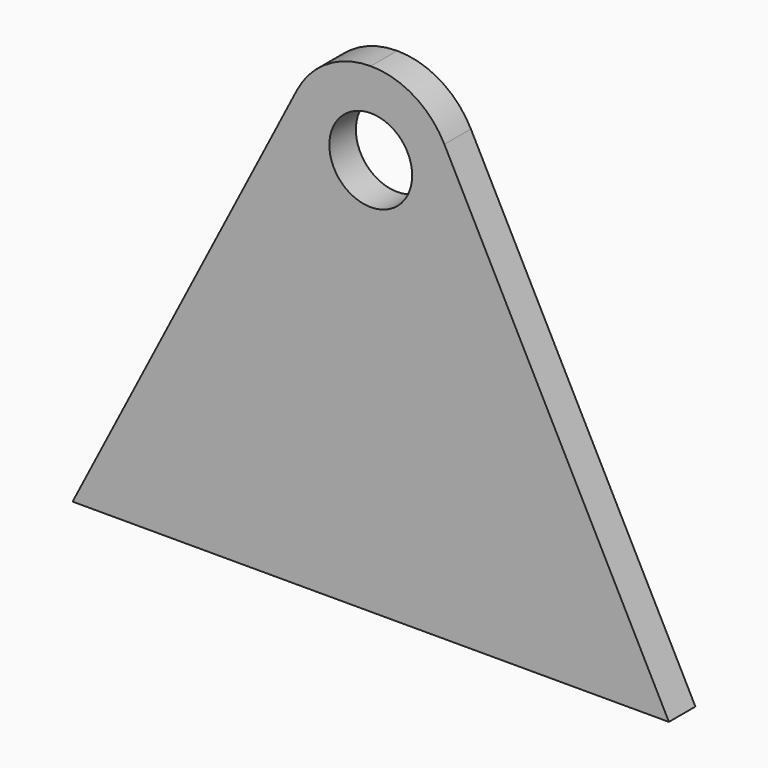
from build123d import *

# Parameters (mm, degrees)
F0_R     = 25
F1_DEPTH = 20


with BuildPart() as f1:
    # F0 (on Front) → F1 (new body)
    with BuildSketch(Plane.XZ):
        with BuildLine():
            Line((-126.065396, -237.863924), (53.934604, -237.863924))
            Line((53.934604, -237.863924), (-81.624864, 25.049808))
            ThreePointArc((-81.624864, 25.049808), (-100.043162, 44.830845), (-126.065396, 52.136076))
            ThreePointArc((-126.065396, 52.136076), (-152.087631, 44.830845), (-170.505928, 25.049808))
            Line((-170.505928, 25.049808), (-306.065396, -237.863924))
            Line((-306.065396, -237.863924), (-126.065396, -237.863924))
        make_face()
        with Locations((-126.065396, 2.136076)):
            Circle(F0_R, mode=Mode.SUBTRACT)
    extrude(amount=F1_DEPTH)


solid = f1.part
